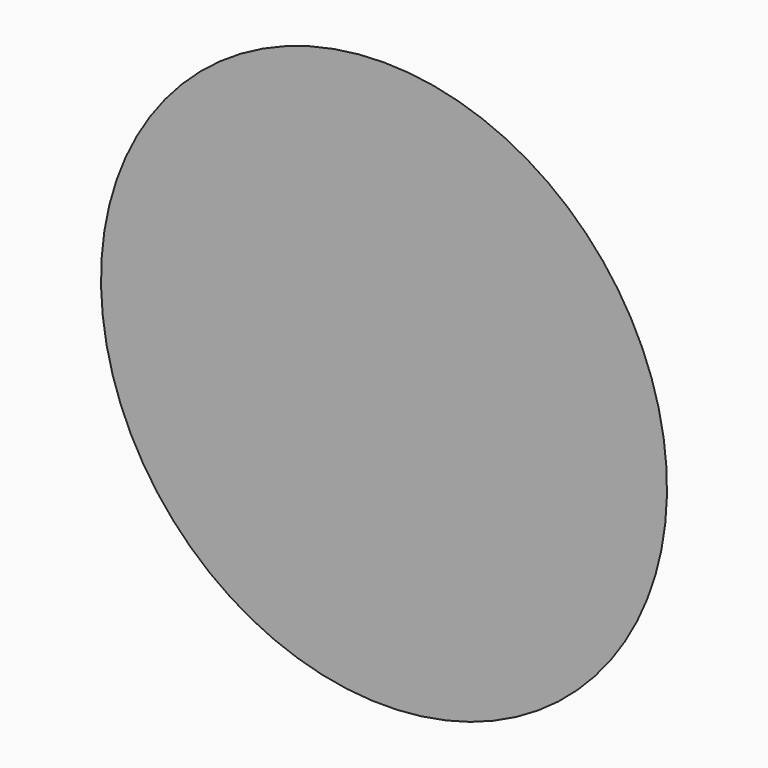
from build123d import *


with BuildPart() as part:
    # Sketch → Revolution (revolve)
    with BuildSketch(Plane.YZ):
        Polygon((0, 0), (1.2, 0), (1.2, 47.5), (0, 50), align=None)
    revolve(axis=Axis((0, 0, 0), (0, 1, 0)))


solid = part.part
